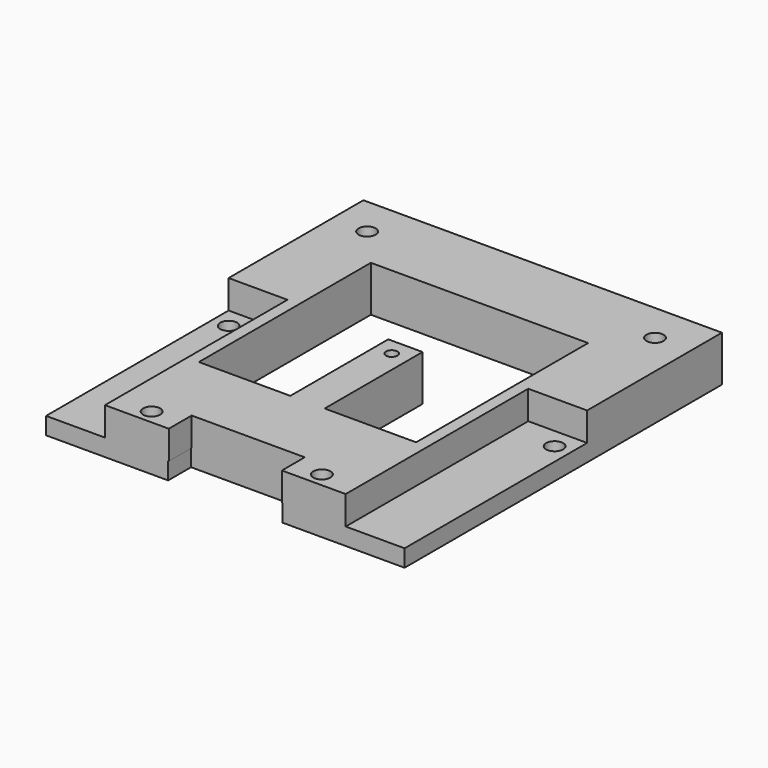
from build123d import *

# Parameters (mm, degrees)
SKETCH002_R   = 1.5
SKETCH002_R_2 = 1
PAD002_DEPTH  = 3
SKETCH001_R   = 1
SKETCH001_R_2 = 1.5
PAD001_DEPTH  = 5


with BuildPart() as platte3:
    # Sketch002 → Pad002 (new body)
    with BuildSketch(Plane.XY):
        Polygon((-31.35, 69.37), (-31.35, 0), (-10, 0), (-10, 5), (10, 5), (10, 0), (31.35, 0), (31.35, 69.37), align=None)
        with Locations((-25.17, 62.47)):
            Circle(SKETCH002_R, mode=Mode.SUBTRACT)
        with Locations((25.17, 62.47)):
            Circle(SKETCH002_R, mode=Mode.SUBTRACT)
        with Locations((-28.5, 36.37)):
            Circle(SKETCH002_R, mode=Mode.SUBTRACT)
        with Locations((28.5, 36.37)):
            Circle(SKETCH002_R, mode=Mode.SUBTRACT)
        with Locations((-15, 2.5)):
            Circle(SKETCH002_R, mode=Mode.SUBTRACT)
        with Locations((15, 2.5)):
            Circle(SKETCH002_R, mode=Mode.SUBTRACT)
        with Locations((0, 36.37)):
            Circle(SKETCH002_R_2, mode=Mode.SUBTRACT)
        Polygon((-19, 55.56), (-19, 17.96), (-3, 17.96), (-3, 39.36), (3, 39.36), (3, 17.96), (19, 17.96), (19, 55.56), align=None, mode=Mode.SUBTRACT)
    extrude(amount=PAD002_DEPTH)


with BuildPart() as fusion:
    # Sketch001 → Pad001 (new body)
    with BuildSketch(Plane.XY):
        Polygon((-31.35, 69.37), (-31.35, 39.9), (-21.05, 39.9), (-21.05, 0), (-9.89, 0), (-9.89, 5), (9.89, 5), (9.89, 0), (21.05, 0), (21.05, 39.9), (31.35, 39.9), (31.35, 69.37), align=None)
        with Locations((0, 36.37)):
            Circle(SKETCH001_R, mode=Mode.SUBTRACT)
        with Locations((-14.89, 2.5)):
            Circle(SKETCH001_R_2, mode=Mode.SUBTRACT)
        with Locations((14.89, 2.5)):
            Circle(SKETCH001_R_2, mode=Mode.SUBTRACT)
        with Locations((-25.17, 62.46)):
            Circle(SKETCH001_R_2, mode=Mode.SUBTRACT)
        with Locations((25.17, 62.46)):
            Circle(SKETCH001_R_2, mode=Mode.SUBTRACT)
        Polygon((-19, 55.56), (-19, 17.96), (-3, 17.96), (-3, 39.37), (3, 39.37), (3, 17.96), (19, 17.96), (19, 55.56), align=None, mode=Mode.SUBTRACT)
    extrude(amount=PAD001_DEPTH)


with BuildPart() as fusion_1:
    # Body001 placement: moved
    add(fusion.part.moved(Location((0, 0, 3))))

    # Fusion: union platte3
    add(platte3.part)


solid = fusion_1.part
